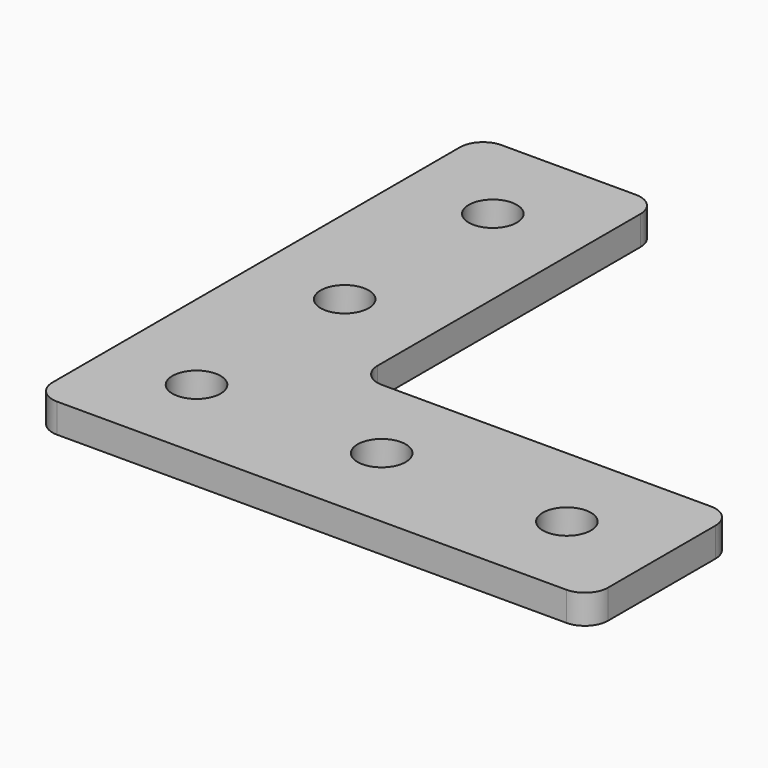
from build123d import *

# Parameters (mm, degrees)
F0_R     = 3.302
F1_DEPTH = 4.0005
F2_R     = 3.175


with BuildPart() as f1:
    # F0 (on Top) → F1 (new body)
    with BuildSketch(Plane.XY):
        Polygon((24.765, 76.2), (0, 76.2), (0, 0), (76.2, 0), (76.2, 24.765), (24.765, 24.765), align=None)
        with Locations((12.3825, 12.3825)):
            Circle(F0_R, mode=Mode.SUBTRACT)
        with Locations((37.7825, 12.3825)):
            Circle(F0_R, mode=Mode.SUBTRACT)
        with Locations((12.3825, 37.7825)):
            Circle(F0_R, mode=Mode.SUBTRACT)
        with Locations((63.1825, 12.3825)):
            Circle(F0_R, mode=Mode.SUBTRACT)
        with Locations((12.3825, 63.1825)):
            Circle(F0_R, mode=Mode.SUBTRACT)
    extrude(amount=F1_DEPTH)

    # F2
    f2_edges = [f1.edges().sort_by_distance(p)[0] for p in [
        (24.765, 24.765, 2.00025),
        (76.2, 24.765, 2.00025),
        (76.2, 0, 2.00025),
        (0, 0, 2.00025),
        (24.765, 76.2, 2.00025),
        (0, 76.2, 2.00025),
    ]]
    fillet(f2_edges, radius=F2_R)


solid = f1.part
